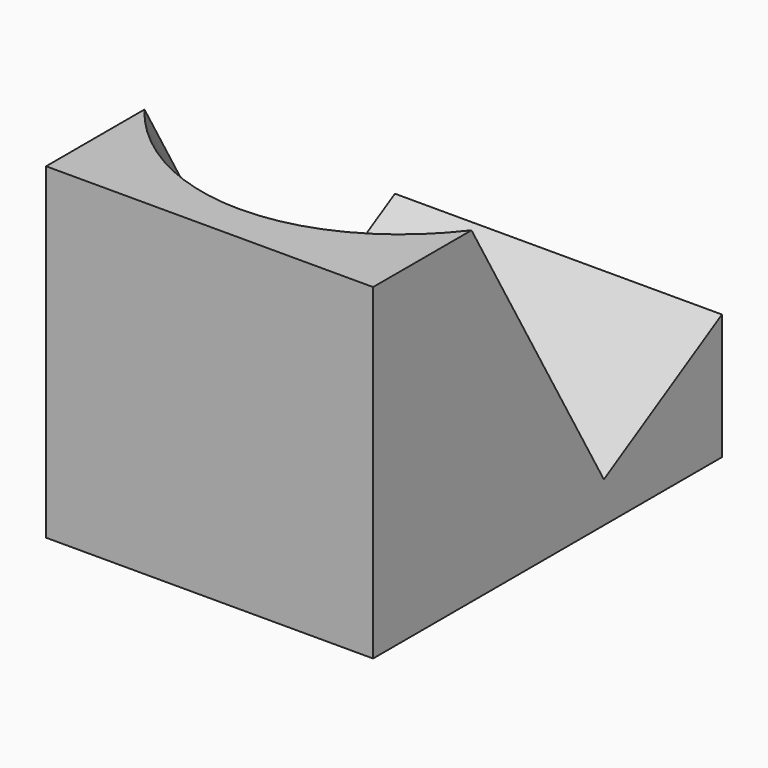
from build123d import *

# Parameters (mm, degrees)
F0_W     = 150
F0_H     = 200
F1_DEPTH = 150
F4_R     = 100
F5_DEPTH = 180


with BuildPart() as f1:
    # F0 (on Top) → F1 (new body)
    with BuildSketch(Plane.XY):
        Rectangle(F0_W, F0_H)
    extrude(amount=F1_DEPTH)

    # F4 (on face) → F5 (cut)
    with BuildSketch(Plane(origin=(0, -89.9519052838, 155.8012701892), x_dir=(1, 0, 0), z_dir=(0, 0.5, -0.8660254038))):
        with Locations((0, -103.3974596216)):
            Circle(F4_R)
    extrude(amount=F5_DEPTH, mode=Mode.SUBTRACT)


solid = f1.part
